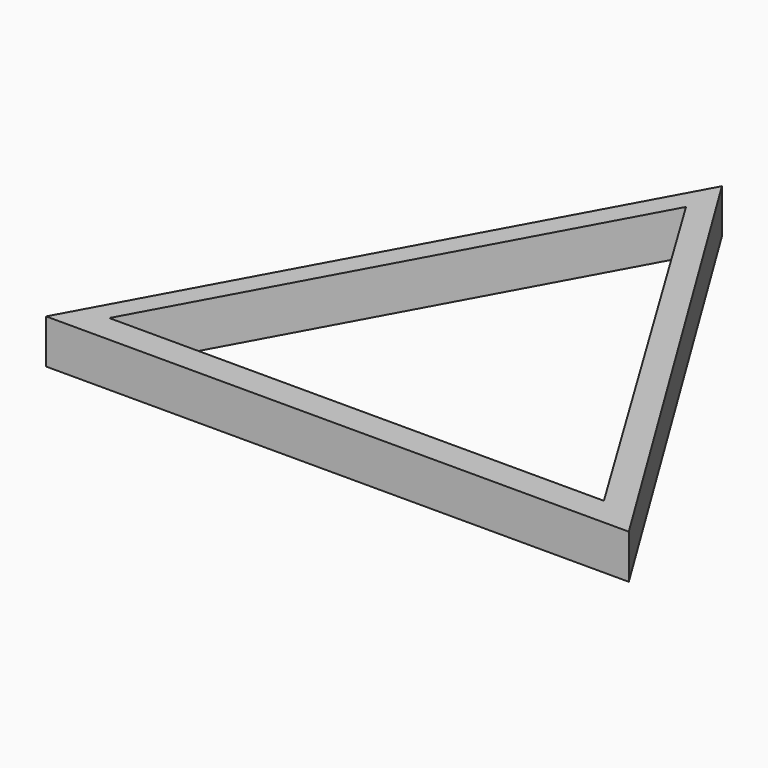
from build123d import *

# Parameters (mm, degrees)
F1_DEPTH = 5.3


with BuildPart() as f1:
    # F0 (on Top) → F1 (new body)
    with BuildSketch(Plane.XY):
        Polygon((36.987744, -22.647183), (0, 37.559837), (-32.954307, -22.647183), align=None)
        Polygon((31.247444, -19.210724), (0, -19.210724), (-28.124915, -19.210724), (0, 32.173071), align=None, mode=Mode.SUBTRACT)
    extrude(amount=F1_DEPTH)


solid = f1.part
